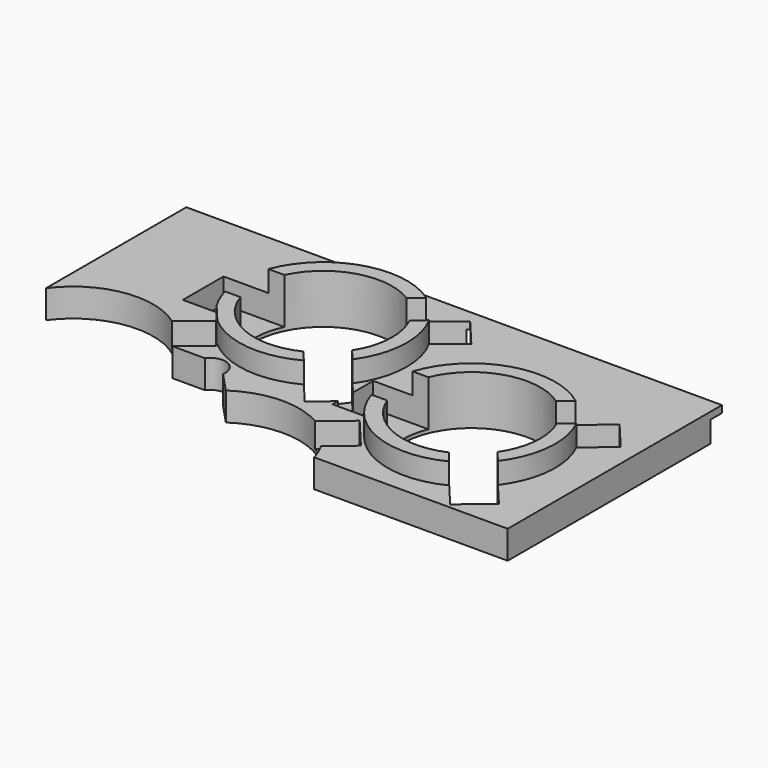
from build123d import *

# Parameters (mm, degrees)
CYLINDER009_R          = 1.1
CYLINDER009_DEPTH      = 10
CYLINDER008_W          = 7
CYLINDER008_H          = 10
CYLINDER008_ANGLE      = 133
BOX008_W               = 4.5
BOX008_H               = 3.6
BOX008_DEPTH           = 10
BOX009_W               = 4.5
BOX009_H               = 3.6
BOX009_DEPTH           = 10
BOX005_W               = 3.4
BOX005_H               = 2.7
BOX005_DEPTH           = 3.5
BOX005_PLACEMENT_ANGLE = 50
BOX006_W               = 4
BOX006_H               = 2.7
BOX006_DEPTH           = 3.5
BOX006_PLACEMENT_ANGLE = 40
BOX004_W               = 3
BOX004_H               = 3
BOX004_DEPTH           = 3.5
BOX004_PLACEMENT_ANGLE = 220
BOX003_W               = 3
BOX003_H               = 3
BOX003_DEPTH           = 3.5
BOX003_PLACEMENT_ANGLE = 220
BOX001_W               = 3.4
BOX001_H               = 2.7
BOX001_DEPTH           = 3.5
BOX001_PLACEMENT_ANGLE = 50
BOX002_W               = 4
BOX002_H               = 2.7
BOX002_DEPTH           = 3.5
BOX002_PLACEMENT_ANGLE = 40
CYLINDER003_R          = 4.9
CYLINDER003_DEPTH      = 10
CYLINDER002_R          = 5.8
CYLINDER002_DEPTH      = 10
CYLINDER001_R          = 4.9
CYLINDER001_DEPTH      = 10
CYLINDER_R             = 5.7
CYLINDER_DEPTH         = 10
BOX007_W               = 38
BOX007_H               = 2
BOX007_DEPTH           = 1.5
CYLINDER004_R          = 5.95
CYLINDER004_DEPTH      = 3.5
BOX_W                  = 38
BOX_H                  = 19
BOX_DEPTH              = 2
CYLINDER005_R          = 5.95
CYLINDER005_DEPTH      = 3.5


with BuildPart() as cylinder009:
    # Cylinder009 → Cylinder009 (new body)
    with BuildSketch(Plane(origin=(13, 4.85, 0), x_dir=(1, 0, 0), z_dir=(0, 0, 1))):
        Circle(CYLINDER009_R)
    extrude(amount=CYLINDER009_DEPTH)


with BuildPart() as fusion002:
    # Cylinder008 → Cylinder008 (revolve)
    with BuildSketch(Plane(origin=(13.3, 5.5, 0), x_dir=(-1, 0, 0), z_dir=(0, 1, 0))):
        with Locations((3.5, 5)):
            Rectangle(CYLINDER008_W, CYLINDER008_H)
    revolve(axis=Axis((13.3, 5.5, 0), (0, 0, 1)), revolution_arc=CYLINDER008_ANGLE)

    # Fusion002: union Cylinder009
    add(cylinder009.part)


with BuildPart() as cube001_x_button_well_left_cutter:
    # Box008 → Box008 (new body)
    with BuildSketch(Plane(origin=(6.8, 10.2, 0.25), x_dir=(1, 0, 0), z_dir=(0, 0, 1))):
        with Locations((2.25, 1.8)):
            Rectangle(BOX008_W, BOX008_H)
    extrude(amount=BOX008_DEPTH)


with BuildPart() as cube002_y_button_well_left_cutter:
    # Box009 → Box009 (new body)
    with BuildSketch(Plane(origin=(21.1, 5.6, 0.25), x_dir=(1, 0, 0), z_dir=(0, 0, 1))):
        with Locations((2.25, 1.8)):
            Rectangle(BOX009_W, BOX009_H)
    extrude(amount=BOX009_DEPTH)


with BuildPart() as box005:
    # Box005 → Box005 (new body)
    with BuildSketch(Plane.XY):
        with Locations((1.7, 1.35)):
            Rectangle(BOX005_W, BOX005_H)
    extrude(amount=BOX005_DEPTH)


with BuildPart() as box005_1:
    # Box005 placement: moved
    add(box005.part.moved(Location((17.5, 7.5, 0.25))).rotate(Axis((17.5, 7.5, 0.25), (0, 0, -1)), BOX005_PLACEMENT_ANGLE))


with BuildPart() as box006:
    # Box006 → Box006 (new body)
    with BuildSketch(Plane.XY):
        with Locations((2, 1.35)):
            Rectangle(BOX006_W, BOX006_H)
    extrude(amount=BOX006_DEPTH)


with BuildPart() as box006_1:
    # Box006 placement: moved
    add(box006.part.moved(Location((33.7, 9, 0.25))).rotate(Axis((33.7, 9, 0.25), (0, 0, 1)), BOX006_PLACEMENT_ANGLE))


with BuildPart() as cube001_a_button_well_cutter:
    # Box004 → Box004 (new body)
    with BuildSketch(Plane.XY):
        with Locations((1.5, 1.5)):
            Rectangle(BOX004_W, BOX004_H)
    extrude(amount=BOX004_DEPTH)


with BuildPart() as cube001_a_button_well_cutter_1:
    # Box004 placement: moved
    add(cube001_a_button_well_cutter.part.moved(Location((9.8, 9.4, 0.25))).rotate(Axis((9.8, 9.4, 0.25), (0, 0, 1)), BOX004_PLACEMENT_ANGLE))


with BuildPart() as cube001_b_button_well_cutter:
    # Box003 → Box003 (new body)
    with BuildSketch(Plane.XY):
        with Locations((1.5, 1.5)):
            Rectangle(BOX003_W, BOX003_H)
    extrude(amount=BOX003_DEPTH)


with BuildPart() as cube001_b_button_well_cutter_1:
    # Box003 placement: moved
    add(cube001_b_button_well_cutter.part.moved(Location((23.5, 5, 0.25))).rotate(Axis((23.5, 5, 0.25), (0, 0, 1)), BOX003_PLACEMENT_ANGLE))


with BuildPart() as box001:
    # Box001 → Box001 (new body)
    with BuildSketch(Plane.XY):
        with Locations((1.7, 1.35)):
            Rectangle(BOX001_W, BOX001_H)
    extrude(amount=BOX001_DEPTH)


with BuildPart() as box001_1:
    # Box001 placement: moved
    add(box001.part.moved(Location((31.5, 2.9, 0.25))).rotate(Axis((31.5, 2.9, 0.25), (0, 0, -1)), BOX001_PLACEMENT_ANGLE))


with BuildPart() as cube001_y_button_well_right_top_cutter:
    # Box002 → Box002 (new body)
    with BuildSketch(Plane.XY):
        with Locations((2, 1.35)):
            Rectangle(BOX002_W, BOX002_H)
    extrude(amount=BOX002_DEPTH)


with BuildPart() as cube001_y_button_well_right_top_cutter_1:
    # Box002 placement: moved
    add(cube001_y_button_well_right_top_cutter.part.moved(Location((19.5, 13.5, 0.25))).rotate(Axis((19.5, 13.5, 0.25), (0, 0, 1)), BOX002_PLACEMENT_ANGLE))


with BuildPart() as cylinder_y_button_well_inner:
    # Cylinder003 → Cylinder003 (new body)
    with BuildSketch(Plane(origin=(29.55, 7.35, 0), x_dir=(1, 0, 0), z_dir=(0, 0, 1))):
        Circle(CYLINDER003_R)
    extrude(amount=CYLINDER003_DEPTH)


with BuildPart() as cylinder_b_button_well_inner:
    # Cylinder002 → Cylinder002 (new body)
    with BuildSketch(Plane(origin=(18.7, -1.6, 0), x_dir=(1, 0, 0), z_dir=(0, 0, 1))):
        Circle(CYLINDER002_R)
    extrude(amount=CYLINDER002_DEPTH)


with BuildPart() as cylinder_x_button_well_inner:
    # Cylinder001 → Cylinder001 (new body)
    with BuildSketch(Plane(origin=(15.55, 11.7, 0), x_dir=(1, 0, 0), z_dir=(0, 0, 1))):
        Circle(CYLINDER001_R)
    extrude(amount=CYLINDER001_DEPTH)


with BuildPart() as cylinder_a_button_well_inner:
    # Cylinder → Cylinder (new body)
    with BuildSketch(Plane(origin=(4.6, 3.2, 0), x_dir=(1, 0, 0), z_dir=(0, 0, 1))):
        Circle(CYLINDER_R)
    extrude(amount=CYLINDER_DEPTH)


with BuildPart() as fusion001:
    # Box007 → Box007 (new body)
    with BuildSketch(Plane(origin=(0, 18, 0), x_dir=(1, 0, 0), z_dir=(0, 0, 1))):
        with Locations((19, 1)):
            Rectangle(BOX007_W, BOX007_H)
    extrude(amount=BOX007_DEPTH)

    # Fusion001: union Cube001(x_button_well_left_cutter), Cube002(y_button_well_left_cutter), Box005, Box006, Cube001(a_button_well_cutter), Cube001(b_button_well_cutter), Box001, Cube001(y_button_well_right_top_cutter), Cylinder(y_button_well_inner), Cylinder(b_button_well_inner), Cylinder(x_button_well_inner), Cylinder(a_button_well_inner)
    add(cube001_x_button_well_left_cutter.part)
    add(cube002_y_button_well_left_cutter.part)
    add(box005_1.part)
    add(box006_1.part)
    add(cube001_a_button_well_cutter_1.part)
    add(cube001_b_button_well_cutter_1.part)
    add(box001_1.part)
    add(cube001_y_button_well_right_top_cutter_1.part)
    add(cylinder_y_button_well_inner.part)
    add(cylinder_b_button_well_inner.part)
    add(cylinder_x_button_well_inner.part)
    add(cylinder_a_button_well_inner.part)


with BuildPart() as cylinder_x_button_well_outer:
    # Cylinder004 → Cylinder004 (new body)
    with BuildSketch(Plane(origin=(15.55, 11.7, 0), x_dir=(1, 0, 0), z_dir=(0, 0, 1))):
        Circle(CYLINDER004_R)
    extrude(amount=CYLINDER004_DEPTH)


with BuildPart() as cube:
    # Box → Box (new body)
    with BuildSketch(Plane.XY):
        with Locations((19, 9.5)):
            Rectangle(BOX_W, BOX_H)
    extrude(amount=BOX_DEPTH)


with BuildPart() as cut001:
    # Cylinder005 → Cylinder005 (new body)
    with BuildSketch(Plane(origin=(29.55, 7.35, 0), x_dir=(1, 0, 0), z_dir=(0, 0, 1))):
        Circle(CYLINDER005_R)
    extrude(amount=CYLINDER005_DEPTH)

    # Fusion: union Cylinder(x_button_well_outer), Cube
    add(cylinder_x_button_well_outer.part)
    add(cube.part)

    # Cut: cut Fusion001
    add(fusion001.part, mode=Mode.SUBTRACT)

    # Cut001: cut Fusion002
    add(fusion002.part, mode=Mode.SUBTRACT)


solid = cut001.part
